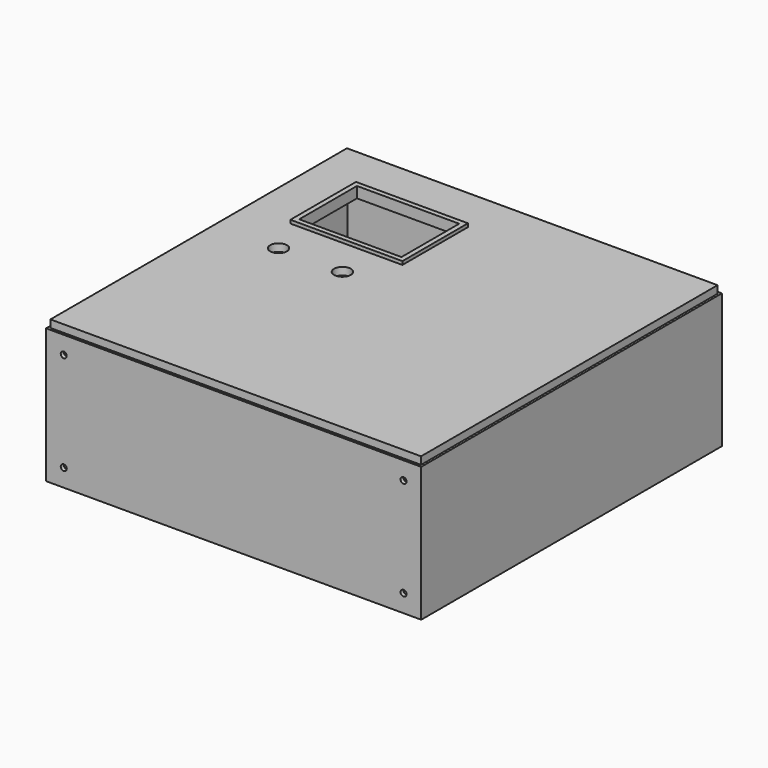
from build123d import *

# Parameters (mm, degrees)
F0_W      = 499
F0_H      = 500
F1_DEPTH  = 179
F2_T      = -5
F3_W      = 493
F3_H      = 493
F4_DEPTH  = 10
F5_W      = 149
F5_H      = 109
F6_DEPTH  = 4.5
F7_W      = 136
F7_H      = 96
F8_DEPTH  = 60.5
F9_R      = 11.15
F10_DEPTH = 25
F11_R     = 8
F11_R_2   = 4.5
F12_DEPTH = 25
F13_R     = 4
F14_DEPTH = 10


with BuildPart() as f1:
    # F0 (on Top) → F1 (new body)
    with BuildSketch(Plane.XY):
        Rectangle(F0_W, F0_H)
    extrude(amount=-F1_DEPTH)

    # F2
    f2_openings = [f1.faces().sort_by_distance(p)[0] for p in [
        (0, 0, 0),
    ]]
    offset(amount=F2_T, openings=f2_openings)

    # F3 (on Top) → F4 (join)
    with BuildSketch(Plane.XY):
        Rectangle(F3_W, F3_H)
    extrude(amount=F4_DEPTH)

    # F5 (on face) → F6 (join)
    with BuildSketch(Plane.XY.offset(10)):
        with Locations((-112, 132)):
            Rectangle(F5_W, F5_H)
    extrude(amount=F6_DEPTH)

    # F7 (on face) → F8 (cut)
    with BuildSketch(Plane.XY.offset(14.5)):
        with Locations((-112, 132)):
            Rectangle(F7_W, F7_H)
    extrude(amount=-F8_DEPTH, mode=Mode.SUBTRACT)

    # F9 (on face) → F10 (cut)
    with BuildSketch(Plane.XY.offset(10)):
        with Locations((-76.5, 26.5)):
            Circle(F9_R)
        with Locations((-161.5, 26.5)):
            Circle(F9_R)
    extrude(amount=-F10_DEPTH, mode=Mode.SUBTRACT)

    # F11 (on face) → F12 (cut)
    with BuildSketch(Plane(origin=(0, 0, -179), x_dir=(1, 0, 0), z_dir=(0, 0, -1))):
        with Locations((-150.940314, 223.095)):
            Circle(F11_R)
        with Locations((0, 160.243019)):
            Circle(F11_R_2)
        with Locations((0, 225.243019)):
            Circle(F11_R_2)
    extrude(amount=-F12_DEPTH, mode=Mode.SUBTRACT)

    # F13 (on face) → F14 (cut)
    with BuildSketch(Plane.XZ.offset(250)):
        with Locations((-226, -23.5)):
            Circle(F13_R)
        with Locations((-226, -155.5)):
            Circle(F13_R)
        with Locations((226, -155.5)):
            Circle(F13_R)
        with Locations((226, -23.5)):
            Circle(F13_R)
    extrude(amount=-F14_DEPTH, mode=Mode.SUBTRACT)


solid = f1.part
